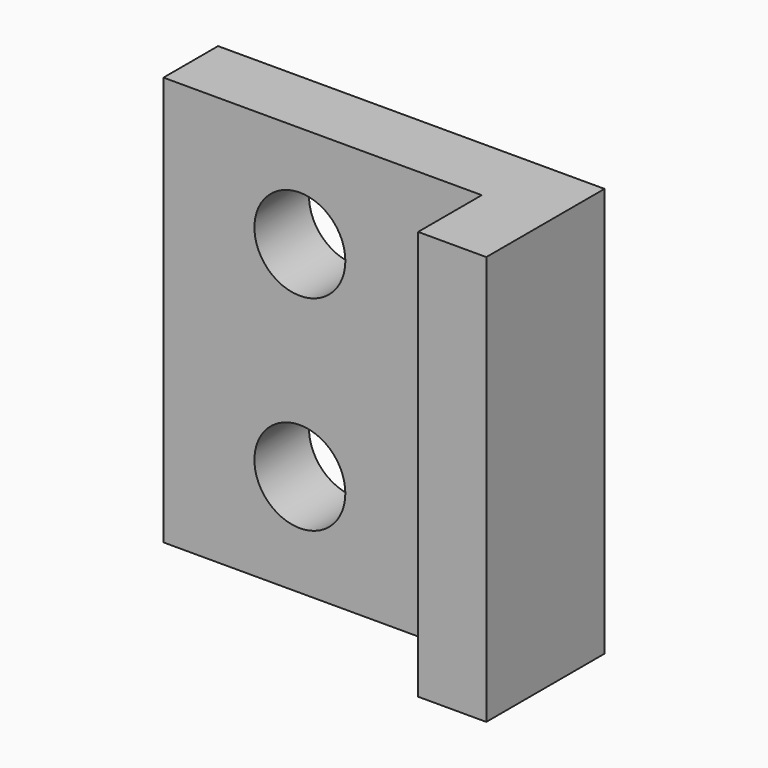
from build123d import *

# Parameters (mm, degrees)
F1_DEPTH = 36
F2_R     = 4
F3_DEPTH = 25


with BuildPart() as f1:
    # F0 (on Top) → F1 (new body)
    with BuildSketch(Plane.XY):
        Polygon((34, 0), (0, 0), (0, -6), (28, -6), (28, -13), (34, -13), align=None)
    extrude(amount=F1_DEPTH)

    # F2 (on face) → F3 (cut)
    with BuildSketch(Plane.XZ.offset(6)):
        with Locations((12, 27)):
            Circle(F2_R)
        with Locations((12, 9)):
            Circle(F2_R)
    extrude(amount=-F3_DEPTH, mode=Mode.SUBTRACT)


solid = f1.part
